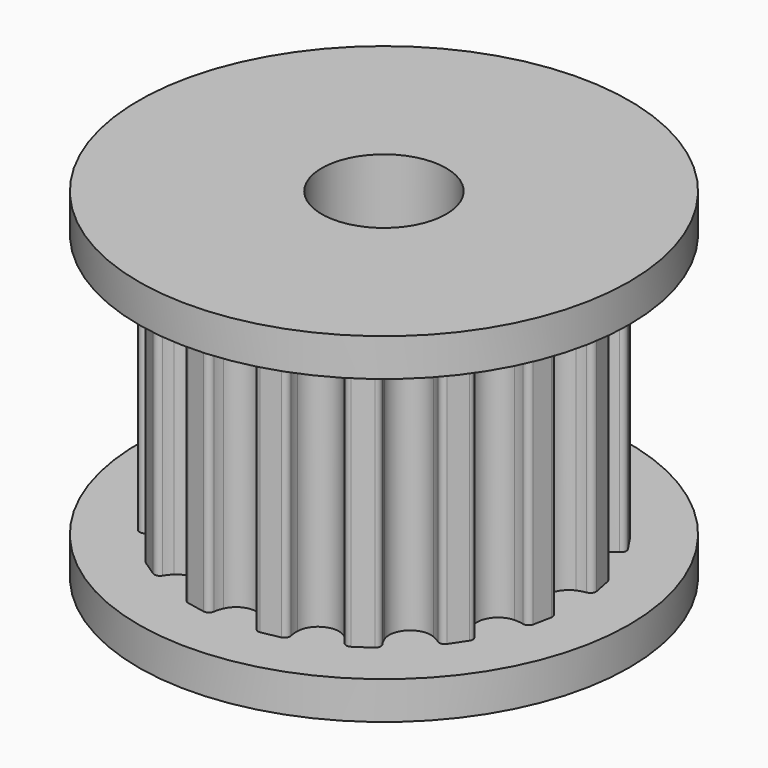
from build123d import *

# Parameters (mm, degrees)
F0_R     = 6.5
F0_R_2   = 1.65
F1_DEPTH = 1
F2_DEPTH = 7
F3_START = 7
F3_DEPTH = 1


with BuildPart() as f1:
    # F0 (on Top) → F1 (new body)
    with BuildSketch(Plane.XY):
        Circle(F0_R)
        with BuildLine():
            ThreePointArc((4.9090131312, 0.5782954576), (4.7899259351, 0.5504631071), (4.6751267224, 0.5083022152))
            ThreePointArc((4.6751267224, 0.5083022152), (4.3429581789, 0), (4.6751267224, -0.5083022152))
            ThreePointArc((4.6751267224, -0.5083022152), (4.7899259351, -0.5504631071), (4.9090131312, -0.5782954576))
            ThreePointArc((4.9090131312, -0.5782954576), (5.0090368594, -0.6367571879), (5.0375745642, -0.7490430709))
            Line((5.0375745642, -0.7490430709), (4.9407584068, -1.2357707629))
            ThreePointArc((4.9407584068, -1.2357707629), (4.8714230583, -1.3285884851), (4.7566408474, -1.3443226576))
            ThreePointArc((4.7566408474, -1.3443226576), (4.6359676449, -1.3244636995), (4.5137727272, -1.3194835279))
            ThreePointArc((4.5137727272, -1.3194835279), (4.0123701721, -1.6619781425), (4.1247350544, -2.2587035539))
            ThreePointArc((4.1247350544, -2.2587035539), (4.2146614224, -2.3415868957), (4.3140326661, -2.4128733316))
            ThreePointArc((4.3140326661, -2.4128733316), (4.3840702057, -2.5051623513), (4.36746566, -2.6198218872))
            Line((4.36746566, -2.6198218872), (4.09175657, -3.0324497003))
            ThreePointArc((4.09175657, -3.0324497003), (3.9921792561, -3.0916686049), (3.8801131136, -3.0622798344))
            ThreePointArc((3.8801131136, -3.0622798344), (3.7762253059, -2.9977529142), (3.6652377516, -2.9463898651))
            ThreePointArc((3.6652377516, -2.9463898651), (3.0709351787, -3.0709351787), (2.9463898651, -3.6652377516))
            ThreePointArc((2.9463898651, -3.6652377516), (2.9977529142, -3.7762253059), (3.0622798344, -3.8801131136))
            ThreePointArc((3.0622798344, -3.8801131136), (3.0916686049, -3.9921792561), (3.0324497003, -4.09175657))
            Line((3.0324497003, -4.09175657), (2.6198218872, -4.36746566))
            ThreePointArc((2.6198218872, -4.36746566), (2.5051623513, -4.3840702057), (2.4128733316, -4.3140326661))
            ThreePointArc((2.4128733316, -4.3140326661), (2.3415868957, -4.2146614224), (2.2587035539, -4.1247350544))
            ThreePointArc((2.2587035539, -4.1247350544), (1.6619781425, -4.0123701721), (1.3194835279, -4.5137727272))
            ThreePointArc((1.3194835279, -4.5137727272), (1.3244636995, -4.6359676449), (1.3443226576, -4.7566408474))
            ThreePointArc((1.3443226576, -4.7566408474), (1.3285884851, -4.8714230583), (1.2357707629, -4.9407584068))
            Line((1.2357707629, -4.9407584068), (0.7490430709, -5.0375745642))
            ThreePointArc((0.7490430709, -5.0375745642), (0.6367571879, -5.0090368594), (0.5782954576, -4.9090131312))
            ThreePointArc((0.5782954576, -4.9090131312), (0.5504631071, -4.7899259351), (0.5083022152, -4.6751267224))
            ThreePointArc((0.5083022152, -4.6751267224), (0, -4.3429581789), (-0.5083022152, -4.6751267224))
            ThreePointArc((-0.5083022152, -4.6751267224), (-0.5504631071, -4.7899259351), (-0.5782954576, -4.9090131312))
            ThreePointArc((-0.5782954576, -4.9090131312), (-0.6367571879, -5.0090368594), (-0.7490430709, -5.0375745642))
            Line((-0.7490430709, -5.0375745642), (-1.2357707629, -4.9407584068))
            ThreePointArc((-1.2357707629, -4.9407584068), (-1.3285884851, -4.8714230583), (-1.3443226576, -4.7566408474))
            ThreePointArc((-1.3443226576, -4.7566408474), (-1.3244636995, -4.6359676449), (-1.3194835279, -4.5137727272))
            ThreePointArc((-1.3194835279, -4.5137727272), (-1.6619781425, -4.0123701721), (-2.2587035539, -4.1247350544))
            ThreePointArc((-2.2587035539, -4.1247350544), (-2.3415868957, -4.2146614224), (-2.4128733316, -4.3140326661))
            ThreePointArc((-2.4128733316, -4.3140326661), (-2.5051623513, -4.3840702057), (-2.6198218872, -4.36746566))
            Line((-2.6198218872, -4.36746566), (-3.0324497003, -4.09175657))
            ThreePointArc((-3.0324497003, -4.09175657), (-3.0916686049, -3.9921792561), (-3.0622798344, -3.8801131136))
            ThreePointArc((-3.0622798344, -3.8801131136), (-2.9977529142, -3.7762253059), (-2.9463898651, -3.6652377516))
            ThreePointArc((-2.9463898651, -3.6652377516), (-3.0709351787, -3.0709351787), (-3.6652377516, -2.9463898651))
            ThreePointArc((-3.6652377516, -2.9463898651), (-3.7762253059, -2.9977529142), (-3.8801131136, -3.0622798344))
            ThreePointArc((-3.8801131136, -3.0622798344), (-3.9921792561, -3.0916686049), (-4.09175657, -3.0324497003))
            Line((-4.09175657, -3.0324497003), (-4.36746566, -2.6198218872))
            ThreePointArc((-4.36746566, -2.6198218872), (-4.3840702057, -2.5051623513), (-4.3140326661, -2.4128733316))
            ThreePointArc((-4.3140326661, -2.4128733316), (-4.2146614224, -2.3415868957), (-4.1247350544, -2.2587035539))
            ThreePointArc((-4.1247350544, -2.2587035539), (-4.0123701721, -1.6619781425), (-4.5137727272, -1.3194835279))
            ThreePointArc((-4.5137727272, -1.3194835279), (-4.6359676449, -1.3244636995), (-4.7566408474, -1.3443226576))
            ThreePointArc((-4.7566408474, -1.3443226576), (-4.8714230583, -1.3285884851), (-4.9407584068, -1.2357707629))
            Line((-4.9407584068, -1.2357707629), (-5.0375745642, -0.7490430709))
            ThreePointArc((-5.0375745642, -0.7490430709), (-5.0090368594, -0.6367571879), (-4.9090131312, -0.5782954576))
            ThreePointArc((-4.9090131312, -0.5782954576), (-4.7899259351, -0.5504631071), (-4.6751267224, -0.5083022152))
            ThreePointArc((-4.6751267224, -0.5083022152), (-4.3429581789, 0), (-4.6751267224, 0.5083022152))
            ThreePointArc((-4.6751267224, 0.5083022152), (-4.7899259351, 0.5504631071), (-4.9090131312, 0.5782954576))
            ThreePointArc((-4.9090131312, 0.5782954576), (-5.0090368594, 0.6367571879), (-5.0375745642, 0.7490430709))
            Line((-5.0375745642, 0.7490430709), (-4.9407584068, 1.2357707629))
            ThreePointArc((-4.9407584068, 1.2357707629), (-4.8714230583, 1.3285884851), (-4.7566408474, 1.3443226576))
            ThreePointArc((-4.7566408474, 1.3443226576), (-4.6359676449, 1.3244636995), (-4.5137727272, 1.3194835279))
            ThreePointArc((-4.5137727272, 1.3194835279), (-4.0123701721, 1.6619781425), (-4.1247350544, 2.2587035539))
            ThreePointArc((-4.1247350544, 2.2587035539), (-4.2146614224, 2.3415868957), (-4.3140326661, 2.4128733316))
            ThreePointArc((-4.3140326661, 2.4128733316), (-4.3840702057, 2.5051623513), (-4.36746566, 2.6198218872))
            Line((-4.36746566, 2.6198218872), (-4.09175657, 3.0324497003))
            ThreePointArc((-4.09175657, 3.0324497003), (-3.9921792561, 3.0916686049), (-3.8801131136, 3.0622798344))
            ThreePointArc((-3.8801131136, 3.0622798344), (-3.7762253059, 2.9977529142), (-3.6652377516, 2.9463898651))
            ThreePointArc((-3.6652377516, 2.9463898651), (-3.0709351787, 3.0709351787), (-2.9463898651, 3.6652377516))
            ThreePointArc((-2.9463898651, 3.6652377516), (-2.9977529142, 3.7762253059), (-3.0622798344, 3.8801131136))
            ThreePointArc((-3.0622798344, 3.8801131136), (-3.0916686049, 3.9921792561), (-3.0324497003, 4.09175657))
            Line((-3.0324497003, 4.09175657), (-2.6198218872, 4.36746566))
            ThreePointArc((-2.6198218872, 4.36746566), (-2.5051623513, 4.3840702057), (-2.4128733316, 4.3140326661))
            ThreePointArc((-2.4128733316, 4.3140326661), (-2.3415868957, 4.2146614224), (-2.2587035539, 4.1247350544))
            ThreePointArc((-2.2587035539, 4.1247350544), (-1.6619781425, 4.0123701721), (-1.3194835279, 4.5137727272))
            ThreePointArc((-1.3194835279, 4.5137727272), (-1.3244636995, 4.6359676449), (-1.3443226576, 4.7566408474))
            ThreePointArc((-1.3443226576, 4.7566408474), (-1.3285884851, 4.8714230583), (-1.2357707629, 4.9407584068))
            Line((-1.2357707629, 4.9407584068), (-0.7490430709, 5.0375745642))
            ThreePointArc((-0.7490430709, 5.0375745642), (-0.6367571879, 5.0090368594), (-0.5782954576, 4.9090131312))
            ThreePointArc((-0.5782954576, 4.9090131312), (-0.5504631071, 4.7899259351), (-0.5083022152, 4.6751267224))
            ThreePointArc((-0.5083022152, 4.6751267224), (0, 4.3429581789), (0.5083022152, 4.6751267224))
            ThreePointArc((0.5083022152, 4.6751267224), (0.5504631071, 4.7899259351), (0.5782954576, 4.9090131312))
            ThreePointArc((0.5782954576, 4.9090131312), (0.6367571879, 5.0090368594), (0.7490430709, 5.0375745642))
            Line((0.7490430709, 5.0375745642), (1.2357707629, 4.9407584068))
            ThreePointArc((1.2357707629, 4.9407584068), (1.3285884851, 4.8714230583), (1.3443226576, 4.7566408474))
            ThreePointArc((1.3443226576, 4.7566408474), (1.3244636995, 4.6359676449), (1.3194835279, 4.5137727272))
            ThreePointArc((1.3194835279, 4.5137727272), (1.6619781425, 4.0123701721), (2.2587035539, 4.1247350544))
            ThreePointArc((2.2587035539, 4.1247350544), (2.3415868957, 4.2146614224), (2.4128733316, 4.3140326661))
            ThreePointArc((2.4128733316, 4.3140326661), (2.5051623513, 4.3840702057), (2.6198218872, 4.36746566))
            Line((2.6198218872, 4.36746566), (3.0324497003, 4.09175657))
            ThreePointArc((3.0324497003, 4.09175657), (3.0916686049, 3.9921792561), (3.0622798344, 3.8801131136))
            ThreePointArc((3.0622798344, 3.8801131136), (2.9977529142, 3.7762253059), (2.9463898651, 3.6652377516))
            ThreePointArc((2.9463898651, 3.6652377516), (3.0709351787, 3.0709351787), (3.6652377516, 2.9463898651))
            ThreePointArc((3.6652377516, 2.9463898651), (3.7762253059, 2.9977529142), (3.8801131136, 3.0622798344))
            ThreePointArc((3.8801131136, 3.0622798344), (3.9921792561, 3.0916686049), (4.09175657, 3.0324497003))
            Line((4.09175657, 3.0324497003), (4.36746566, 2.6198218872))
            ThreePointArc((4.36746566, 2.6198218872), (4.3840702057, 2.5051623513), (4.3140326661, 2.4128733316))
            ThreePointArc((4.3140326661, 2.4128733316), (4.2146614224, 2.3415868957), (4.1247350544, 2.2587035539))
            ThreePointArc((4.1247350544, 2.2587035539), (4.0123701721, 1.6619781425), (4.5137727272, 1.3194835279))
            ThreePointArc((4.5137727272, 1.3194835279), (4.6359676449, 1.3244636995), (4.7566408474, 1.3443226576))
            ThreePointArc((4.7566408474, 1.3443226576), (4.8714230583, 1.3285884851), (4.9407584068, 1.2357707629))
            Line((4.9407584068, 1.2357707629), (5.0375745642, 0.7490430709))
            ThreePointArc((5.0375745642, 0.7490430709), (5.0090368594, 0.6367571879), (4.9090131312, 0.5782954576))
        make_face(mode=Mode.SUBTRACT)
        with BuildLine():
            ThreePointArc((4.6751267224, -0.5083022152), (4.3429581789, 0), (4.6751267224, 0.5083022152))
            ThreePointArc((4.6751267224, 0.5083022152), (4.7899259351, 0.5504631071), (4.9090131312, 0.5782954576))
            ThreePointArc((4.9090131312, 0.5782954576), (5.0090368594, 0.6367571879), (5.0375745642, 0.7490430709))
            Line((5.0375745642, 0.7490430709), (4.9407584068, 1.2357707629))
            ThreePointArc((4.9407584068, 1.2357707629), (4.8714230583, 1.3285884851), (4.7566408474, 1.3443226576))
            ThreePointArc((4.7566408474, 1.3443226576), (4.6359676449, 1.3244636995), (4.5137727272, 1.3194835279))
            ThreePointArc((4.5137727272, 1.3194835279), (4.0123701721, 1.6619781425), (4.1247350544, 2.2587035539))
            ThreePointArc((4.1247350544, 2.2587035539), (4.2146614224, 2.3415868957), (4.3140326661, 2.4128733316))
            ThreePointArc((4.3140326661, 2.4128733316), (4.3840702057, 2.5051623513), (4.36746566, 2.6198218872))
            Line((4.36746566, 2.6198218872), (4.09175657, 3.0324497003))
            ThreePointArc((4.09175657, 3.0324497003), (3.9921792561, 3.0916686049), (3.8801131136, 3.0622798344))
            ThreePointArc((3.8801131136, 3.0622798344), (3.7762253059, 2.9977529142), (3.6652377516, 2.9463898651))
            ThreePointArc((3.6652377516, 2.9463898651), (3.0709351787, 3.0709351787), (2.9463898651, 3.6652377516))
            ThreePointArc((2.9463898651, 3.6652377516), (2.9977529142, 3.7762253059), (3.0622798344, 3.8801131136))
            ThreePointArc((3.0622798344, 3.8801131136), (3.0916686049, 3.9921792561), (3.0324497003, 4.09175657))
            Line((3.0324497003, 4.09175657), (2.6198218872, 4.36746566))
            ThreePointArc((2.6198218872, 4.36746566), (2.5051623513, 4.3840702057), (2.4128733316, 4.3140326661))
            ThreePointArc((2.4128733316, 4.3140326661), (2.3415868957, 4.2146614224), (2.2587035539, 4.1247350544))
            ThreePointArc((2.2587035539, 4.1247350544), (1.6619781425, 4.0123701721), (1.3194835279, 4.5137727272))
            ThreePointArc((1.3194835279, 4.5137727272), (1.3244636995, 4.6359676449), (1.3443226576, 4.7566408474))
            ThreePointArc((1.3443226576, 4.7566408474), (1.3285884851, 4.8714230583), (1.2357707629, 4.9407584068))
            Line((1.2357707629, 4.9407584068), (0.7490430709, 5.0375745642))
            ThreePointArc((0.7490430709, 5.0375745642), (0.6367571879, 5.0090368594), (0.5782954576, 4.9090131312))
            ThreePointArc((0.5782954576, 4.9090131312), (0.5504631071, 4.7899259351), (0.5083022152, 4.6751267224))
            ThreePointArc((0.5083022152, 4.6751267224), (0, 4.3429581789), (-0.5083022152, 4.6751267224))
            ThreePointArc((-0.5083022152, 4.6751267224), (-0.5504631071, 4.7899259351), (-0.5782954576, 4.9090131312))
            ThreePointArc((-0.5782954576, 4.9090131312), (-0.6367571879, 5.0090368594), (-0.7490430709, 5.0375745642))
            Line((-0.7490430709, 5.0375745642), (-1.2357707629, 4.9407584068))
            ThreePointArc((-1.2357707629, 4.9407584068), (-1.3285884851, 4.8714230583), (-1.3443226576, 4.7566408474))
            ThreePointArc((-1.3443226576, 4.7566408474), (-1.3244636995, 4.6359676449), (-1.3194835279, 4.5137727272))
            ThreePointArc((-1.3194835279, 4.5137727272), (-1.6619781425, 4.0123701721), (-2.2587035539, 4.1247350544))
            ThreePointArc((-2.2587035539, 4.1247350544), (-2.3415868957, 4.2146614224), (-2.4128733316, 4.3140326661))
            ThreePointArc((-2.4128733316, 4.3140326661), (-2.5051623513, 4.3840702057), (-2.6198218872, 4.36746566))
            Line((-2.6198218872, 4.36746566), (-3.0324497003, 4.09175657))
            ThreePointArc((-3.0324497003, 4.09175657), (-3.0916686049, 3.9921792561), (-3.0622798344, 3.8801131136))
            ThreePointArc((-3.0622798344, 3.8801131136), (-2.9977529142, 3.7762253059), (-2.9463898651, 3.6652377516))
            ThreePointArc((-2.9463898651, 3.6652377516), (-3.0709351787, 3.0709351787), (-3.6652377516, 2.9463898651))
            ThreePointArc((-3.6652377516, 2.9463898651), (-3.7762253059, 2.9977529142), (-3.8801131136, 3.0622798344))
            ThreePointArc((-3.8801131136, 3.0622798344), (-3.9921792561, 3.0916686049), (-4.09175657, 3.0324497003))
            Line((-4.09175657, 3.0324497003), (-4.36746566, 2.6198218872))
            ThreePointArc((-4.36746566, 2.6198218872), (-4.3840702057, 2.5051623513), (-4.3140326661, 2.4128733316))
            ThreePointArc((-4.3140326661, 2.4128733316), (-4.2146614224, 2.3415868957), (-4.1247350544, 2.2587035539))
            ThreePointArc((-4.1247350544, 2.2587035539), (-4.0123701721, 1.6619781425), (-4.5137727272, 1.3194835279))
            ThreePointArc((-4.5137727272, 1.3194835279), (-4.6359676449, 1.3244636995), (-4.7566408474, 1.3443226576))
            ThreePointArc((-4.7566408474, 1.3443226576), (-4.8714230583, 1.3285884851), (-4.9407584068, 1.2357707629))
            Line((-4.9407584068, 1.2357707629), (-5.0375745642, 0.7490430709))
            ThreePointArc((-5.0375745642, 0.7490430709), (-5.0090368594, 0.6367571879), (-4.9090131312, 0.5782954576))
            ThreePointArc((-4.9090131312, 0.5782954576), (-4.7899259351, 0.5504631071), (-4.6751267224, 0.5083022152))
            ThreePointArc((-4.6751267224, 0.5083022152), (-4.3429581789, 0), (-4.6751267224, -0.5083022152))
            ThreePointArc((-4.6751267224, -0.5083022152), (-4.7899259351, -0.5504631071), (-4.9090131312, -0.5782954576))
            ThreePointArc((-4.9090131312, -0.5782954576), (-5.0090368594, -0.6367571879), (-5.0375745642, -0.7490430709))
            Line((-5.0375745642, -0.7490430709), (-4.9407584068, -1.2357707629))
            ThreePointArc((-4.9407584068, -1.2357707629), (-4.8714230583, -1.3285884851), (-4.7566408474, -1.3443226576))
            ThreePointArc((-4.7566408474, -1.3443226576), (-4.6359676449, -1.3244636995), (-4.5137727272, -1.3194835279))
            ThreePointArc((-4.5137727272, -1.3194835279), (-4.0123701721, -1.6619781425), (-4.1247350544, -2.2587035539))
            ThreePointArc((-4.1247350544, -2.2587035539), (-4.2146614224, -2.3415868957), (-4.3140326661, -2.4128733316))
            ThreePointArc((-4.3140326661, -2.4128733316), (-4.3840702057, -2.5051623513), (-4.36746566, -2.6198218872))
            Line((-4.36746566, -2.6198218872), (-4.09175657, -3.0324497003))
            ThreePointArc((-4.09175657, -3.0324497003), (-3.9921792561, -3.0916686049), (-3.8801131136, -3.0622798344))
            ThreePointArc((-3.8801131136, -3.0622798344), (-3.7762253059, -2.9977529142), (-3.6652377516, -2.9463898651))
            ThreePointArc((-3.6652377516, -2.9463898651), (-3.0709351787, -3.0709351787), (-2.9463898651, -3.6652377516))
            ThreePointArc((-2.9463898651, -3.6652377516), (-2.9977529142, -3.7762253059), (-3.0622798344, -3.8801131136))
            ThreePointArc((-3.0622798344, -3.8801131136), (-3.0916686049, -3.9921792561), (-3.0324497003, -4.09175657))
            Line((-3.0324497003, -4.09175657), (-2.6198218872, -4.36746566))
            ThreePointArc((-2.6198218872, -4.36746566), (-2.5051623513, -4.3840702057), (-2.4128733316, -4.3140326661))
            ThreePointArc((-2.4128733316, -4.3140326661), (-2.3415868957, -4.2146614224), (-2.2587035539, -4.1247350544))
            ThreePointArc((-2.2587035539, -4.1247350544), (-1.6619781425, -4.0123701721), (-1.3194835279, -4.5137727272))
            ThreePointArc((-1.3194835279, -4.5137727272), (-1.3244636995, -4.6359676449), (-1.3443226576, -4.7566408474))
            ThreePointArc((-1.3443226576, -4.7566408474), (-1.3285884851, -4.8714230583), (-1.2357707629, -4.9407584068))
            Line((-1.2357707629, -4.9407584068), (-0.7490430709, -5.0375745642))
            ThreePointArc((-0.7490430709, -5.0375745642), (-0.6367571879, -5.0090368594), (-0.5782954576, -4.9090131312))
            ThreePointArc((-0.5782954576, -4.9090131312), (-0.5504631071, -4.7899259351), (-0.5083022152, -4.6751267224))
            ThreePointArc((-0.5083022152, -4.6751267224), (0, -4.3429581789), (0.5083022152, -4.6751267224))
            ThreePointArc((0.5083022152, -4.6751267224), (0.5504631071, -4.7899259351), (0.5782954576, -4.9090131312))
            ThreePointArc((0.5782954576, -4.9090131312), (0.6367571879, -5.0090368594), (0.7490430709, -5.0375745642))
            Line((0.7490430709, -5.0375745642), (1.2357707629, -4.9407584068))
            ThreePointArc((1.2357707629, -4.9407584068), (1.3285884851, -4.8714230583), (1.3443226576, -4.7566408474))
            ThreePointArc((1.3443226576, -4.7566408474), (1.3244636995, -4.6359676449), (1.3194835279, -4.5137727272))
            ThreePointArc((1.3194835279, -4.5137727272), (1.6619781425, -4.0123701721), (2.2587035539, -4.1247350544))
            ThreePointArc((2.2587035539, -4.1247350544), (2.3415868957, -4.2146614224), (2.4128733316, -4.3140326661))
            ThreePointArc((2.4128733316, -4.3140326661), (2.5051623513, -4.3840702057), (2.6198218872, -4.36746566))
            Line((2.6198218872, -4.36746566), (3.0324497003, -4.09175657))
            ThreePointArc((3.0324497003, -4.09175657), (3.0916686049, -3.9921792561), (3.0622798344, -3.8801131136))
            ThreePointArc((3.0622798344, -3.8801131136), (2.9977529142, -3.7762253059), (2.9463898651, -3.6652377516))
            ThreePointArc((2.9463898651, -3.6652377516), (3.0709351787, -3.0709351787), (3.6652377516, -2.9463898651))
            ThreePointArc((3.6652377516, -2.9463898651), (3.7762253059, -2.9977529142), (3.8801131136, -3.0622798344))
            ThreePointArc((3.8801131136, -3.0622798344), (3.9921792561, -3.0916686049), (4.09175657, -3.0324497003))
            Line((4.09175657, -3.0324497003), (4.36746566, -2.6198218872))
            ThreePointArc((4.36746566, -2.6198218872), (4.3840702057, -2.5051623513), (4.3140326661, -2.4128733316))
            ThreePointArc((4.3140326661, -2.4128733316), (4.2146614224, -2.3415868957), (4.1247350544, -2.2587035539))
            ThreePointArc((4.1247350544, -2.2587035539), (4.0123701721, -1.6619781425), (4.5137727272, -1.3194835279))
            ThreePointArc((4.5137727272, -1.3194835279), (4.6359676449, -1.3244636995), (4.7566408474, -1.3443226576))
            ThreePointArc((4.7566408474, -1.3443226576), (4.8714230583, -1.3285884851), (4.9407584068, -1.2357707629))
            Line((4.9407584068, -1.2357707629), (5.0375745642, -0.7490430709))
            ThreePointArc((5.0375745642, -0.7490430709), (5.0090368594, -0.6367571879), (4.9090131312, -0.5782954576))
            ThreePointArc((4.9090131312, -0.5782954576), (4.7899259351, -0.5504631071), (4.6751267224, -0.5083022152))
        make_face()
        Circle(F0_R_2, mode=Mode.SUBTRACT)
    extrude(amount=-F1_DEPTH)

    # F0 (on Top) → F2 (join)
    with BuildSketch(Plane.XY):
        with BuildLine():
            ThreePointArc((4.6751267224, -0.5083022152), (4.3429581789, 0), (4.6751267224, 0.5083022152))
            ThreePointArc((4.6751267224, 0.5083022152), (4.7899259351, 0.5504631071), (4.9090131312, 0.5782954576))
            ThreePointArc((4.9090131312, 0.5782954576), (5.0090368594, 0.6367571879), (5.0375745642, 0.7490430709))
            Line((5.0375745642, 0.7490430709), (4.9407584068, 1.2357707629))
            ThreePointArc((4.9407584068, 1.2357707629), (4.8714230583, 1.3285884851), (4.7566408474, 1.3443226576))
            ThreePointArc((4.7566408474, 1.3443226576), (4.6359676449, 1.3244636995), (4.5137727272, 1.3194835279))
            ThreePointArc((4.5137727272, 1.3194835279), (4.0123701721, 1.6619781425), (4.1247350544, 2.2587035539))
            ThreePointArc((4.1247350544, 2.2587035539), (4.2146614224, 2.3415868957), (4.3140326661, 2.4128733316))
            ThreePointArc((4.3140326661, 2.4128733316), (4.3840702057, 2.5051623513), (4.36746566, 2.6198218872))
            Line((4.36746566, 2.6198218872), (4.09175657, 3.0324497003))
            ThreePointArc((4.09175657, 3.0324497003), (3.9921792561, 3.0916686049), (3.8801131136, 3.0622798344))
            ThreePointArc((3.8801131136, 3.0622798344), (3.7762253059, 2.9977529142), (3.6652377516, 2.9463898651))
            ThreePointArc((3.6652377516, 2.9463898651), (3.0709351787, 3.0709351787), (2.9463898651, 3.6652377516))
            ThreePointArc((2.9463898651, 3.6652377516), (2.9977529142, 3.7762253059), (3.0622798344, 3.8801131136))
            ThreePointArc((3.0622798344, 3.8801131136), (3.0916686049, 3.9921792561), (3.0324497003, 4.09175657))
            Line((3.0324497003, 4.09175657), (2.6198218872, 4.36746566))
            ThreePointArc((2.6198218872, 4.36746566), (2.5051623513, 4.3840702057), (2.4128733316, 4.3140326661))
            ThreePointArc((2.4128733316, 4.3140326661), (2.3415868957, 4.2146614224), (2.2587035539, 4.1247350544))
            ThreePointArc((2.2587035539, 4.1247350544), (1.6619781425, 4.0123701721), (1.3194835279, 4.5137727272))
            ThreePointArc((1.3194835279, 4.5137727272), (1.3244636995, 4.6359676449), (1.3443226576, 4.7566408474))
            ThreePointArc((1.3443226576, 4.7566408474), (1.3285884851, 4.8714230583), (1.2357707629, 4.9407584068))
            Line((1.2357707629, 4.9407584068), (0.7490430709, 5.0375745642))
            ThreePointArc((0.7490430709, 5.0375745642), (0.6367571879, 5.0090368594), (0.5782954576, 4.9090131312))
            ThreePointArc((0.5782954576, 4.9090131312), (0.5504631071, 4.7899259351), (0.5083022152, 4.6751267224))
            ThreePointArc((0.5083022152, 4.6751267224), (0, 4.3429581789), (-0.5083022152, 4.6751267224))
            ThreePointArc((-0.5083022152, 4.6751267224), (-0.5504631071, 4.7899259351), (-0.5782954576, 4.9090131312))
            ThreePointArc((-0.5782954576, 4.9090131312), (-0.6367571879, 5.0090368594), (-0.7490430709, 5.0375745642))
            Line((-0.7490430709, 5.0375745642), (-1.2357707629, 4.9407584068))
            ThreePointArc((-1.2357707629, 4.9407584068), (-1.3285884851, 4.8714230583), (-1.3443226576, 4.7566408474))
            ThreePointArc((-1.3443226576, 4.7566408474), (-1.3244636995, 4.6359676449), (-1.3194835279, 4.5137727272))
            ThreePointArc((-1.3194835279, 4.5137727272), (-1.6619781425, 4.0123701721), (-2.2587035539, 4.1247350544))
            ThreePointArc((-2.2587035539, 4.1247350544), (-2.3415868957, 4.2146614224), (-2.4128733316, 4.3140326661))
            ThreePointArc((-2.4128733316, 4.3140326661), (-2.5051623513, 4.3840702057), (-2.6198218872, 4.36746566))
            Line((-2.6198218872, 4.36746566), (-3.0324497003, 4.09175657))
            ThreePointArc((-3.0324497003, 4.09175657), (-3.0916686049, 3.9921792561), (-3.0622798344, 3.8801131136))
            ThreePointArc((-3.0622798344, 3.8801131136), (-2.9977529142, 3.7762253059), (-2.9463898651, 3.6652377516))
            ThreePointArc((-2.9463898651, 3.6652377516), (-3.0709351787, 3.0709351787), (-3.6652377516, 2.9463898651))
            ThreePointArc((-3.6652377516, 2.9463898651), (-3.7762253059, 2.9977529142), (-3.8801131136, 3.0622798344))
            ThreePointArc((-3.8801131136, 3.0622798344), (-3.9921792561, 3.0916686049), (-4.09175657, 3.0324497003))
            Line((-4.09175657, 3.0324497003), (-4.36746566, 2.6198218872))
            ThreePointArc((-4.36746566, 2.6198218872), (-4.3840702057, 2.5051623513), (-4.3140326661, 2.4128733316))
            ThreePointArc((-4.3140326661, 2.4128733316), (-4.2146614224, 2.3415868957), (-4.1247350544, 2.2587035539))
            ThreePointArc((-4.1247350544, 2.2587035539), (-4.0123701721, 1.6619781425), (-4.5137727272, 1.3194835279))
            ThreePointArc((-4.5137727272, 1.3194835279), (-4.6359676449, 1.3244636995), (-4.7566408474, 1.3443226576))
            ThreePointArc((-4.7566408474, 1.3443226576), (-4.8714230583, 1.3285884851), (-4.9407584068, 1.2357707629))
            Line((-4.9407584068, 1.2357707629), (-5.0375745642, 0.7490430709))
            ThreePointArc((-5.0375745642, 0.7490430709), (-5.0090368594, 0.6367571879), (-4.9090131312, 0.5782954576))
            ThreePointArc((-4.9090131312, 0.5782954576), (-4.7899259351, 0.5504631071), (-4.6751267224, 0.5083022152))
            ThreePointArc((-4.6751267224, 0.5083022152), (-4.3429581789, 0), (-4.6751267224, -0.5083022152))
            ThreePointArc((-4.6751267224, -0.5083022152), (-4.7899259351, -0.5504631071), (-4.9090131312, -0.5782954576))
            ThreePointArc((-4.9090131312, -0.5782954576), (-5.0090368594, -0.6367571879), (-5.0375745642, -0.7490430709))
            Line((-5.0375745642, -0.7490430709), (-4.9407584068, -1.2357707629))
            ThreePointArc((-4.9407584068, -1.2357707629), (-4.8714230583, -1.3285884851), (-4.7566408474, -1.3443226576))
            ThreePointArc((-4.7566408474, -1.3443226576), (-4.6359676449, -1.3244636995), (-4.5137727272, -1.3194835279))
            ThreePointArc((-4.5137727272, -1.3194835279), (-4.0123701721, -1.6619781425), (-4.1247350544, -2.2587035539))
            ThreePointArc((-4.1247350544, -2.2587035539), (-4.2146614224, -2.3415868957), (-4.3140326661, -2.4128733316))
            ThreePointArc((-4.3140326661, -2.4128733316), (-4.3840702057, -2.5051623513), (-4.36746566, -2.6198218872))
            Line((-4.36746566, -2.6198218872), (-4.09175657, -3.0324497003))
            ThreePointArc((-4.09175657, -3.0324497003), (-3.9921792561, -3.0916686049), (-3.8801131136, -3.0622798344))
            ThreePointArc((-3.8801131136, -3.0622798344), (-3.7762253059, -2.9977529142), (-3.6652377516, -2.9463898651))
            ThreePointArc((-3.6652377516, -2.9463898651), (-3.0709351787, -3.0709351787), (-2.9463898651, -3.6652377516))
            ThreePointArc((-2.9463898651, -3.6652377516), (-2.9977529142, -3.7762253059), (-3.0622798344, -3.8801131136))
            ThreePointArc((-3.0622798344, -3.8801131136), (-3.0916686049, -3.9921792561), (-3.0324497003, -4.09175657))
            Line((-3.0324497003, -4.09175657), (-2.6198218872, -4.36746566))
            ThreePointArc((-2.6198218872, -4.36746566), (-2.5051623513, -4.3840702057), (-2.4128733316, -4.3140326661))
            ThreePointArc((-2.4128733316, -4.3140326661), (-2.3415868957, -4.2146614224), (-2.2587035539, -4.1247350544))
            ThreePointArc((-2.2587035539, -4.1247350544), (-1.6619781425, -4.0123701721), (-1.3194835279, -4.5137727272))
            ThreePointArc((-1.3194835279, -4.5137727272), (-1.3244636995, -4.6359676449), (-1.3443226576, -4.7566408474))
            ThreePointArc((-1.3443226576, -4.7566408474), (-1.3285884851, -4.8714230583), (-1.2357707629, -4.9407584068))
            Line((-1.2357707629, -4.9407584068), (-0.7490430709, -5.0375745642))
            ThreePointArc((-0.7490430709, -5.0375745642), (-0.6367571879, -5.0090368594), (-0.5782954576, -4.9090131312))
            ThreePointArc((-0.5782954576, -4.9090131312), (-0.5504631071, -4.7899259351), (-0.5083022152, -4.6751267224))
            ThreePointArc((-0.5083022152, -4.6751267224), (0, -4.3429581789), (0.5083022152, -4.6751267224))
            ThreePointArc((0.5083022152, -4.6751267224), (0.5504631071, -4.7899259351), (0.5782954576, -4.9090131312))
            ThreePointArc((0.5782954576, -4.9090131312), (0.6367571879, -5.0090368594), (0.7490430709, -5.0375745642))
            Line((0.7490430709, -5.0375745642), (1.2357707629, -4.9407584068))
            ThreePointArc((1.2357707629, -4.9407584068), (1.3285884851, -4.8714230583), (1.3443226576, -4.7566408474))
            ThreePointArc((1.3443226576, -4.7566408474), (1.3244636995, -4.6359676449), (1.3194835279, -4.5137727272))
            ThreePointArc((1.3194835279, -4.5137727272), (1.6619781425, -4.0123701721), (2.2587035539, -4.1247350544))
            ThreePointArc((2.2587035539, -4.1247350544), (2.3415868957, -4.2146614224), (2.4128733316, -4.3140326661))
            ThreePointArc((2.4128733316, -4.3140326661), (2.5051623513, -4.3840702057), (2.6198218872, -4.36746566))
            Line((2.6198218872, -4.36746566), (3.0324497003, -4.09175657))
            ThreePointArc((3.0324497003, -4.09175657), (3.0916686049, -3.9921792561), (3.0622798344, -3.8801131136))
            ThreePointArc((3.0622798344, -3.8801131136), (2.9977529142, -3.7762253059), (2.9463898651, -3.6652377516))
            ThreePointArc((2.9463898651, -3.6652377516), (3.0709351787, -3.0709351787), (3.6652377516, -2.9463898651))
            ThreePointArc((3.6652377516, -2.9463898651), (3.7762253059, -2.9977529142), (3.8801131136, -3.0622798344))
            ThreePointArc((3.8801131136, -3.0622798344), (3.9921792561, -3.0916686049), (4.09175657, -3.0324497003))
            Line((4.09175657, -3.0324497003), (4.36746566, -2.6198218872))
            ThreePointArc((4.36746566, -2.6198218872), (4.3840702057, -2.5051623513), (4.3140326661, -2.4128733316))
            ThreePointArc((4.3140326661, -2.4128733316), (4.2146614224, -2.3415868957), (4.1247350544, -2.2587035539))
            ThreePointArc((4.1247350544, -2.2587035539), (4.0123701721, -1.6619781425), (4.5137727272, -1.3194835279))
            ThreePointArc((4.5137727272, -1.3194835279), (4.6359676449, -1.3244636995), (4.7566408474, -1.3443226576))
            ThreePointArc((4.7566408474, -1.3443226576), (4.8714230583, -1.3285884851), (4.9407584068, -1.2357707629))
            Line((4.9407584068, -1.2357707629), (5.0375745642, -0.7490430709))
            ThreePointArc((5.0375745642, -0.7490430709), (5.0090368594, -0.6367571879), (4.9090131312, -0.5782954576))
            ThreePointArc((4.9090131312, -0.5782954576), (4.7899259351, -0.5504631071), (4.6751267224, -0.5083022152))
        make_face()
        Circle(F0_R_2, mode=Mode.SUBTRACT)
    extrude(amount=F2_DEPTH)

    # F0 (on Top) → F3 (join)
    with BuildSketch(Plane.XY.offset(F3_START)):
        Circle(F0_R)
        with BuildLine():
            ThreePointArc((4.9090131312, 0.5782954576), (4.7899259351, 0.5504631071), (4.6751267224, 0.5083022152))
            ThreePointArc((4.6751267224, 0.5083022152), (4.3429581789, 0), (4.6751267224, -0.5083022152))
            ThreePointArc((4.6751267224, -0.5083022152), (4.7899259351, -0.5504631071), (4.9090131312, -0.5782954576))
            ThreePointArc((4.9090131312, -0.5782954576), (5.0090368594, -0.6367571879), (5.0375745642, -0.7490430709))
            Line((5.0375745642, -0.7490430709), (4.9407584068, -1.2357707629))
            ThreePointArc((4.9407584068, -1.2357707629), (4.8714230583, -1.3285884851), (4.7566408474, -1.3443226576))
            ThreePointArc((4.7566408474, -1.3443226576), (4.6359676449, -1.3244636995), (4.5137727272, -1.3194835279))
            ThreePointArc((4.5137727272, -1.3194835279), (4.0123701721, -1.6619781425), (4.1247350544, -2.2587035539))
            ThreePointArc((4.1247350544, -2.2587035539), (4.2146614224, -2.3415868957), (4.3140326661, -2.4128733316))
            ThreePointArc((4.3140326661, -2.4128733316), (4.3840702057, -2.5051623513), (4.36746566, -2.6198218872))
            Line((4.36746566, -2.6198218872), (4.09175657, -3.0324497003))
            ThreePointArc((4.09175657, -3.0324497003), (3.9921792561, -3.0916686049), (3.8801131136, -3.0622798344))
            ThreePointArc((3.8801131136, -3.0622798344), (3.7762253059, -2.9977529142), (3.6652377516, -2.9463898651))
            ThreePointArc((3.6652377516, -2.9463898651), (3.0709351787, -3.0709351787), (2.9463898651, -3.6652377516))
            ThreePointArc((2.9463898651, -3.6652377516), (2.9977529142, -3.7762253059), (3.0622798344, -3.8801131136))
            ThreePointArc((3.0622798344, -3.8801131136), (3.0916686049, -3.9921792561), (3.0324497003, -4.09175657))
            Line((3.0324497003, -4.09175657), (2.6198218872, -4.36746566))
            ThreePointArc((2.6198218872, -4.36746566), (2.5051623513, -4.3840702057), (2.4128733316, -4.3140326661))
            ThreePointArc((2.4128733316, -4.3140326661), (2.3415868957, -4.2146614224), (2.2587035539, -4.1247350544))
            ThreePointArc((2.2587035539, -4.1247350544), (1.6619781425, -4.0123701721), (1.3194835279, -4.5137727272))
            ThreePointArc((1.3194835279, -4.5137727272), (1.3244636995, -4.6359676449), (1.3443226576, -4.7566408474))
            ThreePointArc((1.3443226576, -4.7566408474), (1.3285884851, -4.8714230583), (1.2357707629, -4.9407584068))
            Line((1.2357707629, -4.9407584068), (0.7490430709, -5.0375745642))
            ThreePointArc((0.7490430709, -5.0375745642), (0.6367571879, -5.0090368594), (0.5782954576, -4.9090131312))
            ThreePointArc((0.5782954576, -4.9090131312), (0.5504631071, -4.7899259351), (0.5083022152, -4.6751267224))
            ThreePointArc((0.5083022152, -4.6751267224), (0, -4.3429581789), (-0.5083022152, -4.6751267224))
            ThreePointArc((-0.5083022152, -4.6751267224), (-0.5504631071, -4.7899259351), (-0.5782954576, -4.9090131312))
            ThreePointArc((-0.5782954576, -4.9090131312), (-0.6367571879, -5.0090368594), (-0.7490430709, -5.0375745642))
            Line((-0.7490430709, -5.0375745642), (-1.2357707629, -4.9407584068))
            ThreePointArc((-1.2357707629, -4.9407584068), (-1.3285884851, -4.8714230583), (-1.3443226576, -4.7566408474))
            ThreePointArc((-1.3443226576, -4.7566408474), (-1.3244636995, -4.6359676449), (-1.3194835279, -4.5137727272))
            ThreePointArc((-1.3194835279, -4.5137727272), (-1.6619781425, -4.0123701721), (-2.2587035539, -4.1247350544))
            ThreePointArc((-2.2587035539, -4.1247350544), (-2.3415868957, -4.2146614224), (-2.4128733316, -4.3140326661))
            ThreePointArc((-2.4128733316, -4.3140326661), (-2.5051623513, -4.3840702057), (-2.6198218872, -4.36746566))
            Line((-2.6198218872, -4.36746566), (-3.0324497003, -4.09175657))
            ThreePointArc((-3.0324497003, -4.09175657), (-3.0916686049, -3.9921792561), (-3.0622798344, -3.8801131136))
            ThreePointArc((-3.0622798344, -3.8801131136), (-2.9977529142, -3.7762253059), (-2.9463898651, -3.6652377516))
            ThreePointArc((-2.9463898651, -3.6652377516), (-3.0709351787, -3.0709351787), (-3.6652377516, -2.9463898651))
            ThreePointArc((-3.6652377516, -2.9463898651), (-3.7762253059, -2.9977529142), (-3.8801131136, -3.0622798344))
            ThreePointArc((-3.8801131136, -3.0622798344), (-3.9921792561, -3.0916686049), (-4.09175657, -3.0324497003))
            Line((-4.09175657, -3.0324497003), (-4.36746566, -2.6198218872))
            ThreePointArc((-4.36746566, -2.6198218872), (-4.3840702057, -2.5051623513), (-4.3140326661, -2.4128733316))
            ThreePointArc((-4.3140326661, -2.4128733316), (-4.2146614224, -2.3415868957), (-4.1247350544, -2.2587035539))
            ThreePointArc((-4.1247350544, -2.2587035539), (-4.0123701721, -1.6619781425), (-4.5137727272, -1.3194835279))
            ThreePointArc((-4.5137727272, -1.3194835279), (-4.6359676449, -1.3244636995), (-4.7566408474, -1.3443226576))
            ThreePointArc((-4.7566408474, -1.3443226576), (-4.8714230583, -1.3285884851), (-4.9407584068, -1.2357707629))
            Line((-4.9407584068, -1.2357707629), (-5.0375745642, -0.7490430709))
            ThreePointArc((-5.0375745642, -0.7490430709), (-5.0090368594, -0.6367571879), (-4.9090131312, -0.5782954576))
            ThreePointArc((-4.9090131312, -0.5782954576), (-4.7899259351, -0.5504631071), (-4.6751267224, -0.5083022152))
            ThreePointArc((-4.6751267224, -0.5083022152), (-4.3429581789, 0), (-4.6751267224, 0.5083022152))
            ThreePointArc((-4.6751267224, 0.5083022152), (-4.7899259351, 0.5504631071), (-4.9090131312, 0.5782954576))
            ThreePointArc((-4.9090131312, 0.5782954576), (-5.0090368594, 0.6367571879), (-5.0375745642, 0.7490430709))
            Line((-5.0375745642, 0.7490430709), (-4.9407584068, 1.2357707629))
            ThreePointArc((-4.9407584068, 1.2357707629), (-4.8714230583, 1.3285884851), (-4.7566408474, 1.3443226576))
            ThreePointArc((-4.7566408474, 1.3443226576), (-4.6359676449, 1.3244636995), (-4.5137727272, 1.3194835279))
            ThreePointArc((-4.5137727272, 1.3194835279), (-4.0123701721, 1.6619781425), (-4.1247350544, 2.2587035539))
            ThreePointArc((-4.1247350544, 2.2587035539), (-4.2146614224, 2.3415868957), (-4.3140326661, 2.4128733316))
            ThreePointArc((-4.3140326661, 2.4128733316), (-4.3840702057, 2.5051623513), (-4.36746566, 2.6198218872))
            Line((-4.36746566, 2.6198218872), (-4.09175657, 3.0324497003))
            ThreePointArc((-4.09175657, 3.0324497003), (-3.9921792561, 3.0916686049), (-3.8801131136, 3.0622798344))
            ThreePointArc((-3.8801131136, 3.0622798344), (-3.7762253059, 2.9977529142), (-3.6652377516, 2.9463898651))
            ThreePointArc((-3.6652377516, 2.9463898651), (-3.0709351787, 3.0709351787), (-2.9463898651, 3.6652377516))
            ThreePointArc((-2.9463898651, 3.6652377516), (-2.9977529142, 3.7762253059), (-3.0622798344, 3.8801131136))
            ThreePointArc((-3.0622798344, 3.8801131136), (-3.0916686049, 3.9921792561), (-3.0324497003, 4.09175657))
            Line((-3.0324497003, 4.09175657), (-2.6198218872, 4.36746566))
            ThreePointArc((-2.6198218872, 4.36746566), (-2.5051623513, 4.3840702057), (-2.4128733316, 4.3140326661))
            ThreePointArc((-2.4128733316, 4.3140326661), (-2.3415868957, 4.2146614224), (-2.2587035539, 4.1247350544))
            ThreePointArc((-2.2587035539, 4.1247350544), (-1.6619781425, 4.0123701721), (-1.3194835279, 4.5137727272))
            ThreePointArc((-1.3194835279, 4.5137727272), (-1.3244636995, 4.6359676449), (-1.3443226576, 4.7566408474))
            ThreePointArc((-1.3443226576, 4.7566408474), (-1.3285884851, 4.8714230583), (-1.2357707629, 4.9407584068))
            Line((-1.2357707629, 4.9407584068), (-0.7490430709, 5.0375745642))
            ThreePointArc((-0.7490430709, 5.0375745642), (-0.6367571879, 5.0090368594), (-0.5782954576, 4.9090131312))
            ThreePointArc((-0.5782954576, 4.9090131312), (-0.5504631071, 4.7899259351), (-0.5083022152, 4.6751267224))
            ThreePointArc((-0.5083022152, 4.6751267224), (0, 4.3429581789), (0.5083022152, 4.6751267224))
            ThreePointArc((0.5083022152, 4.6751267224), (0.5504631071, 4.7899259351), (0.5782954576, 4.9090131312))
            ThreePointArc((0.5782954576, 4.9090131312), (0.6367571879, 5.0090368594), (0.7490430709, 5.0375745642))
            Line((0.7490430709, 5.0375745642), (1.2357707629, 4.9407584068))
            ThreePointArc((1.2357707629, 4.9407584068), (1.3285884851, 4.8714230583), (1.3443226576, 4.7566408474))
            ThreePointArc((1.3443226576, 4.7566408474), (1.3244636995, 4.6359676449), (1.3194835279, 4.5137727272))
            ThreePointArc((1.3194835279, 4.5137727272), (1.6619781425, 4.0123701721), (2.2587035539, 4.1247350544))
            ThreePointArc((2.2587035539, 4.1247350544), (2.3415868957, 4.2146614224), (2.4128733316, 4.3140326661))
            ThreePointArc((2.4128733316, 4.3140326661), (2.5051623513, 4.3840702057), (2.6198218872, 4.36746566))
            Line((2.6198218872, 4.36746566), (3.0324497003, 4.09175657))
            ThreePointArc((3.0324497003, 4.09175657), (3.0916686049, 3.9921792561), (3.0622798344, 3.8801131136))
            ThreePointArc((3.0622798344, 3.8801131136), (2.9977529142, 3.7762253059), (2.9463898651, 3.6652377516))
            ThreePointArc((2.9463898651, 3.6652377516), (3.0709351787, 3.0709351787), (3.6652377516, 2.9463898651))
            ThreePointArc((3.6652377516, 2.9463898651), (3.7762253059, 2.9977529142), (3.8801131136, 3.0622798344))
            ThreePointArc((3.8801131136, 3.0622798344), (3.9921792561, 3.0916686049), (4.09175657, 3.0324497003))
            Line((4.09175657, 3.0324497003), (4.36746566, 2.6198218872))
            ThreePointArc((4.36746566, 2.6198218872), (4.3840702057, 2.5051623513), (4.3140326661, 2.4128733316))
            ThreePointArc((4.3140326661, 2.4128733316), (4.2146614224, 2.3415868957), (4.1247350544, 2.2587035539))
            ThreePointArc((4.1247350544, 2.2587035539), (4.0123701721, 1.6619781425), (4.5137727272, 1.3194835279))
            ThreePointArc((4.5137727272, 1.3194835279), (4.6359676449, 1.3244636995), (4.7566408474, 1.3443226576))
            ThreePointArc((4.7566408474, 1.3443226576), (4.8714230583, 1.3285884851), (4.9407584068, 1.2357707629))
            Line((4.9407584068, 1.2357707629), (5.0375745642, 0.7490430709))
            ThreePointArc((5.0375745642, 0.7490430709), (5.0090368594, 0.6367571879), (4.9090131312, 0.5782954576))
        make_face(mode=Mode.SUBTRACT)
        with BuildLine():
            ThreePointArc((4.6751267224, -0.5083022152), (4.3429581789, 0), (4.6751267224, 0.5083022152))
            ThreePointArc((4.6751267224, 0.5083022152), (4.7899259351, 0.5504631071), (4.9090131312, 0.5782954576))
            ThreePointArc((4.9090131312, 0.5782954576), (5.0090368594, 0.6367571879), (5.0375745642, 0.7490430709))
            Line((5.0375745642, 0.7490430709), (4.9407584068, 1.2357707629))
            ThreePointArc((4.9407584068, 1.2357707629), (4.8714230583, 1.3285884851), (4.7566408474, 1.3443226576))
            ThreePointArc((4.7566408474, 1.3443226576), (4.6359676449, 1.3244636995), (4.5137727272, 1.3194835279))
            ThreePointArc((4.5137727272, 1.3194835279), (4.0123701721, 1.6619781425), (4.1247350544, 2.2587035539))
            ThreePointArc((4.1247350544, 2.2587035539), (4.2146614224, 2.3415868957), (4.3140326661, 2.4128733316))
            ThreePointArc((4.3140326661, 2.4128733316), (4.3840702057, 2.5051623513), (4.36746566, 2.6198218872))
            Line((4.36746566, 2.6198218872), (4.09175657, 3.0324497003))
            ThreePointArc((4.09175657, 3.0324497003), (3.9921792561, 3.0916686049), (3.8801131136, 3.0622798344))
            ThreePointArc((3.8801131136, 3.0622798344), (3.7762253059, 2.9977529142), (3.6652377516, 2.9463898651))
            ThreePointArc((3.6652377516, 2.9463898651), (3.0709351787, 3.0709351787), (2.9463898651, 3.6652377516))
            ThreePointArc((2.9463898651, 3.6652377516), (2.9977529142, 3.7762253059), (3.0622798344, 3.8801131136))
            ThreePointArc((3.0622798344, 3.8801131136), (3.0916686049, 3.9921792561), (3.0324497003, 4.09175657))
            Line((3.0324497003, 4.09175657), (2.6198218872, 4.36746566))
            ThreePointArc((2.6198218872, 4.36746566), (2.5051623513, 4.3840702057), (2.4128733316, 4.3140326661))
            ThreePointArc((2.4128733316, 4.3140326661), (2.3415868957, 4.2146614224), (2.2587035539, 4.1247350544))
            ThreePointArc((2.2587035539, 4.1247350544), (1.6619781425, 4.0123701721), (1.3194835279, 4.5137727272))
            ThreePointArc((1.3194835279, 4.5137727272), (1.3244636995, 4.6359676449), (1.3443226576, 4.7566408474))
            ThreePointArc((1.3443226576, 4.7566408474), (1.3285884851, 4.8714230583), (1.2357707629, 4.9407584068))
            Line((1.2357707629, 4.9407584068), (0.7490430709, 5.0375745642))
            ThreePointArc((0.7490430709, 5.0375745642), (0.6367571879, 5.0090368594), (0.5782954576, 4.9090131312))
            ThreePointArc((0.5782954576, 4.9090131312), (0.5504631071, 4.7899259351), (0.5083022152, 4.6751267224))
            ThreePointArc((0.5083022152, 4.6751267224), (0, 4.3429581789), (-0.5083022152, 4.6751267224))
            ThreePointArc((-0.5083022152, 4.6751267224), (-0.5504631071, 4.7899259351), (-0.5782954576, 4.9090131312))
            ThreePointArc((-0.5782954576, 4.9090131312), (-0.6367571879, 5.0090368594), (-0.7490430709, 5.0375745642))
            Line((-0.7490430709, 5.0375745642), (-1.2357707629, 4.9407584068))
            ThreePointArc((-1.2357707629, 4.9407584068), (-1.3285884851, 4.8714230583), (-1.3443226576, 4.7566408474))
            ThreePointArc((-1.3443226576, 4.7566408474), (-1.3244636995, 4.6359676449), (-1.3194835279, 4.5137727272))
            ThreePointArc((-1.3194835279, 4.5137727272), (-1.6619781425, 4.0123701721), (-2.2587035539, 4.1247350544))
            ThreePointArc((-2.2587035539, 4.1247350544), (-2.3415868957, 4.2146614224), (-2.4128733316, 4.3140326661))
            ThreePointArc((-2.4128733316, 4.3140326661), (-2.5051623513, 4.3840702057), (-2.6198218872, 4.36746566))
            Line((-2.6198218872, 4.36746566), (-3.0324497003, 4.09175657))
            ThreePointArc((-3.0324497003, 4.09175657), (-3.0916686049, 3.9921792561), (-3.0622798344, 3.8801131136))
            ThreePointArc((-3.0622798344, 3.8801131136), (-2.9977529142, 3.7762253059), (-2.9463898651, 3.6652377516))
            ThreePointArc((-2.9463898651, 3.6652377516), (-3.0709351787, 3.0709351787), (-3.6652377516, 2.9463898651))
            ThreePointArc((-3.6652377516, 2.9463898651), (-3.7762253059, 2.9977529142), (-3.8801131136, 3.0622798344))
            ThreePointArc((-3.8801131136, 3.0622798344), (-3.9921792561, 3.0916686049), (-4.09175657, 3.0324497003))
            Line((-4.09175657, 3.0324497003), (-4.36746566, 2.6198218872))
            ThreePointArc((-4.36746566, 2.6198218872), (-4.3840702057, 2.5051623513), (-4.3140326661, 2.4128733316))
            ThreePointArc((-4.3140326661, 2.4128733316), (-4.2146614224, 2.3415868957), (-4.1247350544, 2.2587035539))
            ThreePointArc((-4.1247350544, 2.2587035539), (-4.0123701721, 1.6619781425), (-4.5137727272, 1.3194835279))
            ThreePointArc((-4.5137727272, 1.3194835279), (-4.6359676449, 1.3244636995), (-4.7566408474, 1.3443226576))
            ThreePointArc((-4.7566408474, 1.3443226576), (-4.8714230583, 1.3285884851), (-4.9407584068, 1.2357707629))
            Line((-4.9407584068, 1.2357707629), (-5.0375745642, 0.7490430709))
            ThreePointArc((-5.0375745642, 0.7490430709), (-5.0090368594, 0.6367571879), (-4.9090131312, 0.5782954576))
            ThreePointArc((-4.9090131312, 0.5782954576), (-4.7899259351, 0.5504631071), (-4.6751267224, 0.5083022152))
            ThreePointArc((-4.6751267224, 0.5083022152), (-4.3429581789, 0), (-4.6751267224, -0.5083022152))
            ThreePointArc((-4.6751267224, -0.5083022152), (-4.7899259351, -0.5504631071), (-4.9090131312, -0.5782954576))
            ThreePointArc((-4.9090131312, -0.5782954576), (-5.0090368594, -0.6367571879), (-5.0375745642, -0.7490430709))
            Line((-5.0375745642, -0.7490430709), (-4.9407584068, -1.2357707629))
            ThreePointArc((-4.9407584068, -1.2357707629), (-4.8714230583, -1.3285884851), (-4.7566408474, -1.3443226576))
            ThreePointArc((-4.7566408474, -1.3443226576), (-4.6359676449, -1.3244636995), (-4.5137727272, -1.3194835279))
            ThreePointArc((-4.5137727272, -1.3194835279), (-4.0123701721, -1.6619781425), (-4.1247350544, -2.2587035539))
            ThreePointArc((-4.1247350544, -2.2587035539), (-4.2146614224, -2.3415868957), (-4.3140326661, -2.4128733316))
            ThreePointArc((-4.3140326661, -2.4128733316), (-4.3840702057, -2.5051623513), (-4.36746566, -2.6198218872))
            Line((-4.36746566, -2.6198218872), (-4.09175657, -3.0324497003))
            ThreePointArc((-4.09175657, -3.0324497003), (-3.9921792561, -3.0916686049), (-3.8801131136, -3.0622798344))
            ThreePointArc((-3.8801131136, -3.0622798344), (-3.7762253059, -2.9977529142), (-3.6652377516, -2.9463898651))
            ThreePointArc((-3.6652377516, -2.9463898651), (-3.0709351787, -3.0709351787), (-2.9463898651, -3.6652377516))
            ThreePointArc((-2.9463898651, -3.6652377516), (-2.9977529142, -3.7762253059), (-3.0622798344, -3.8801131136))
            ThreePointArc((-3.0622798344, -3.8801131136), (-3.0916686049, -3.9921792561), (-3.0324497003, -4.09175657))
            Line((-3.0324497003, -4.09175657), (-2.6198218872, -4.36746566))
            ThreePointArc((-2.6198218872, -4.36746566), (-2.5051623513, -4.3840702057), (-2.4128733316, -4.3140326661))
            ThreePointArc((-2.4128733316, -4.3140326661), (-2.3415868957, -4.2146614224), (-2.2587035539, -4.1247350544))
            ThreePointArc((-2.2587035539, -4.1247350544), (-1.6619781425, -4.0123701721), (-1.3194835279, -4.5137727272))
            ThreePointArc((-1.3194835279, -4.5137727272), (-1.3244636995, -4.6359676449), (-1.3443226576, -4.7566408474))
            ThreePointArc((-1.3443226576, -4.7566408474), (-1.3285884851, -4.8714230583), (-1.2357707629, -4.9407584068))
            Line((-1.2357707629, -4.9407584068), (-0.7490430709, -5.0375745642))
            ThreePointArc((-0.7490430709, -5.0375745642), (-0.6367571879, -5.0090368594), (-0.5782954576, -4.9090131312))
            ThreePointArc((-0.5782954576, -4.9090131312), (-0.5504631071, -4.7899259351), (-0.5083022152, -4.6751267224))
            ThreePointArc((-0.5083022152, -4.6751267224), (0, -4.3429581789), (0.5083022152, -4.6751267224))
            ThreePointArc((0.5083022152, -4.6751267224), (0.5504631071, -4.7899259351), (0.5782954576, -4.9090131312))
            ThreePointArc((0.5782954576, -4.9090131312), (0.6367571879, -5.0090368594), (0.7490430709, -5.0375745642))
            Line((0.7490430709, -5.0375745642), (1.2357707629, -4.9407584068))
            ThreePointArc((1.2357707629, -4.9407584068), (1.3285884851, -4.8714230583), (1.3443226576, -4.7566408474))
            ThreePointArc((1.3443226576, -4.7566408474), (1.3244636995, -4.6359676449), (1.3194835279, -4.5137727272))
            ThreePointArc((1.3194835279, -4.5137727272), (1.6619781425, -4.0123701721), (2.2587035539, -4.1247350544))
            ThreePointArc((2.2587035539, -4.1247350544), (2.3415868957, -4.2146614224), (2.4128733316, -4.3140326661))
            ThreePointArc((2.4128733316, -4.3140326661), (2.5051623513, -4.3840702057), (2.6198218872, -4.36746566))
            Line((2.6198218872, -4.36746566), (3.0324497003, -4.09175657))
            ThreePointArc((3.0324497003, -4.09175657), (3.0916686049, -3.9921792561), (3.0622798344, -3.8801131136))
            ThreePointArc((3.0622798344, -3.8801131136), (2.9977529142, -3.7762253059), (2.9463898651, -3.6652377516))
            ThreePointArc((2.9463898651, -3.6652377516), (3.0709351787, -3.0709351787), (3.6652377516, -2.9463898651))
            ThreePointArc((3.6652377516, -2.9463898651), (3.7762253059, -2.9977529142), (3.8801131136, -3.0622798344))
            ThreePointArc((3.8801131136, -3.0622798344), (3.9921792561, -3.0916686049), (4.09175657, -3.0324497003))
            Line((4.09175657, -3.0324497003), (4.36746566, -2.6198218872))
            ThreePointArc((4.36746566, -2.6198218872), (4.3840702057, -2.5051623513), (4.3140326661, -2.4128733316))
            ThreePointArc((4.3140326661, -2.4128733316), (4.2146614224, -2.3415868957), (4.1247350544, -2.2587035539))
            ThreePointArc((4.1247350544, -2.2587035539), (4.0123701721, -1.6619781425), (4.5137727272, -1.3194835279))
            ThreePointArc((4.5137727272, -1.3194835279), (4.6359676449, -1.3244636995), (4.7566408474, -1.3443226576))
            ThreePointArc((4.7566408474, -1.3443226576), (4.8714230583, -1.3285884851), (4.9407584068, -1.2357707629))
            Line((4.9407584068, -1.2357707629), (5.0375745642, -0.7490430709))
            ThreePointArc((5.0375745642, -0.7490430709), (5.0090368594, -0.6367571879), (4.9090131312, -0.5782954576))
            ThreePointArc((4.9090131312, -0.5782954576), (4.7899259351, -0.5504631071), (4.6751267224, -0.5083022152))
        make_face()
        Circle(F0_R_2, mode=Mode.SUBTRACT)
    extrude(amount=F3_DEPTH)


solid = f1.part
